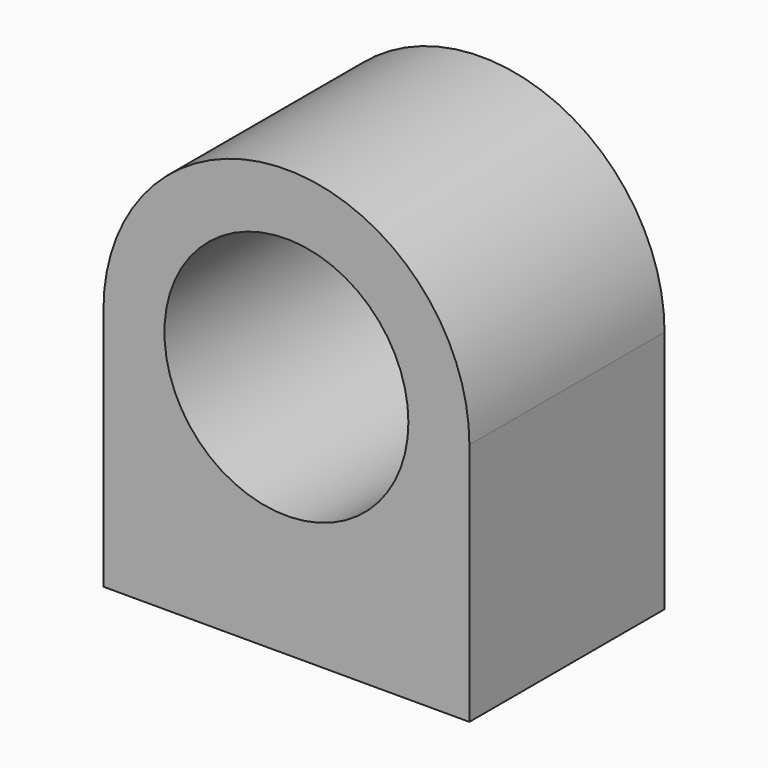
from build123d import *

# Parameters (mm, degrees)
F0_R     = 12.7
F1_DEPTH = 25.4
F2_R     = 3.175
F3_DEPTH = 12.7


with BuildPart() as f1:
    # F0 (on Front) → F1 (new body)
    with BuildSketch(Plane.XZ):
        with BuildLine():
            Line((-14.600585, 25.4), (-14.600585, 0))
            Line((-14.600585, 0), (23.499415, 0))
            Line((23.499415, 0), (23.499415, 25.4))
            ThreePointArc((23.499415, 25.4), (4.449415, 44.45), (-14.600585, 25.4))
        make_face()
        with Locations((4.449415, 25.4)):
            Circle(F0_R, mode=Mode.SUBTRACT)
    extrude(amount=F1_DEPTH)

    # F2 (on face) → F3 (cut)
    with BuildSketch(Plane(origin=(0, 0, 0), x_dir=(1, 0, 0), z_dir=(0, 0, -1))):
        with Locations((-8.250585, 12.7)):
            Circle(F2_R)
        with Locations((17.149415, 12.7)):
            Circle(F2_R)
    extrude(amount=-F3_DEPTH, mode=Mode.SUBTRACT)


solid = f1.part
